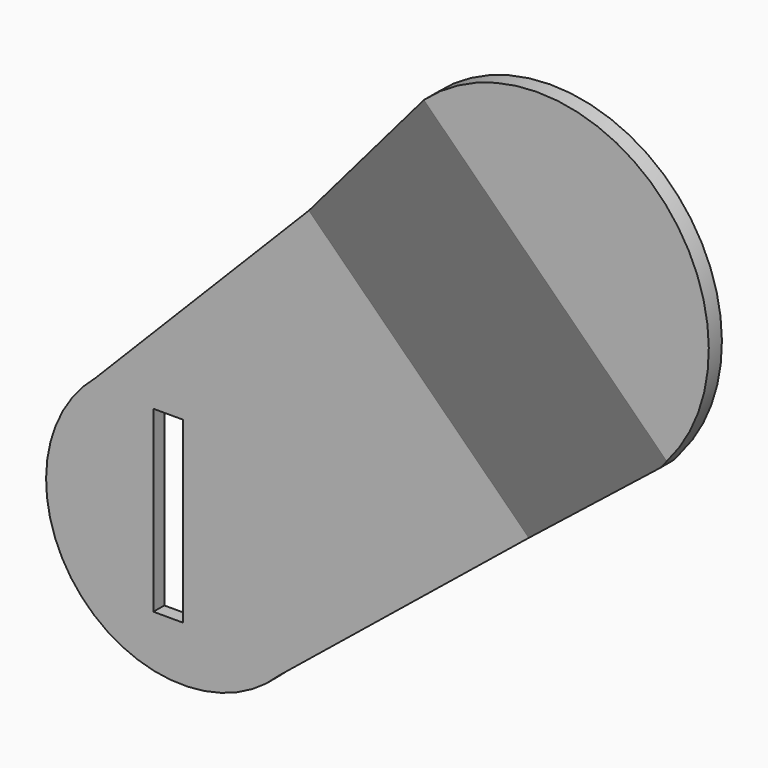
from build123d import *

# Parameters (mm, degrees)
F0_W     = 5.4636245876
F0_H     = 33.2398892505
F1_DEPTH = 2.54
F2_DEPTH = 25.4
F4_DEPTH = 125.8997323481
F5_DEPTH = 125.8997323481
F6_W     = 22.352
F6_H     = 49.1605467501
F7_DEPTH = 125.8997323481


with BuildPart() as f1:
    # F0 (on Front) → F1 (new body)
    with BuildSketch(Plane.XZ):
        with BuildLine():
            ThreePointArc((-58.7834570181, -20.4847763815), (-61.356974344, -57.1489152116), (-24.6143243603, -58.0761367374))
            Line((-24.6143243603, -58.0761367374), (21.8259629316, -20.4486662023))
            Line((21.8259629316, -20.4486662023), (19.6400941384, -18.2968238675))
            Line((19.6400941384, -18.2968238675), (-26.6574493018, -55.8086385705))
            ThreePointArc((-26.6574493018, -55.8086385705), (-59.1008466393, -55.0994768945), (-56.7221636318, -22.7356265638))
            Line((-56.7221636318, -22.7356265638), (-16.9208807766, 17.6950224269))
            Line((-16.9208807766, 17.6950224269), (-19.0929825471, 19.8333120442))
            Line((-19.0929825471, 19.8333120442), (-58.7834570181, -20.4847763815))
        make_face()
        with BuildLine():
            Line((-26.6574493018, -55.8086385705), (19.6400941384, -18.2968238675))
            Line((19.6400941384, -18.2968238675), (-16.9208807766, 17.6950224269))
            Line((-16.9208807766, 17.6950224269), (-56.7221636318, -22.7356265638))
            ThreePointArc((-56.7221636318, -22.7356265638), (-59.1008466393, -55.0994768945), (-26.6574493018, -55.8086385705))
        make_face()
        with Locations((-45.2741895661, -38.6369622716)):
            Rectangle(F0_W, F0_H, mode=Mode.SUBTRACT)
    extrude(amount=F1_DEPTH)

    # F0 (on Front) → F2 (join)
    with BuildSketch(Plane.XZ):
        with BuildLine():
            Line((19.6400941384, -18.2968238675), (21.8259629316, -20.4486662023))
            Line((21.8259629316, -20.4486662023), (63.3089077462, 13.162200025))
            ThreePointArc((63.3089077462, 13.162200025), (65.3407579963, 57.9152109511), (20.5974919239, 60.1514004699))
            Line((20.5974919239, 60.1514004699), (-19.0929825471, 19.8333120442))
            Line((-19.0929825471, 19.8333120442), (-16.9208807766, 17.6950224269))
            Line((-16.9208807766, 17.6950224269), (22.703735232, 57.9462109895))
            ThreePointArc((22.703735232, 57.9462109895), (63.0846270143, 55.8657762462), (61.315579372, 15.4700450325))
            Line((61.315579372, 15.4700450325), (19.6400941384, -18.2968238675))
        make_face()
        with BuildLine():
            Line((-16.9208807766, 17.6950224269), (19.6400941384, -18.2968238675))
            Line((19.6400941384, -18.2968238675), (61.315579372, 15.4700450325))
            ThreePointArc((61.315579372, 15.4700450325), (63.0846270143, 55.8657762462), (22.703735232, 57.9462109895))
            Line((22.703735232, 57.9462109895), (-16.9208807766, 17.6950224269))
        make_face()
    extrude(amount=F2_DEPTH)

    # F3 (on face) → F4 (cut, through all)
    with BuildSketch(Plane(origin=(-19.611689488, 0, 19.306402941), x_dir=(0, -1, 0), z_dir=(-0.7126316385, 0, 0.7015384151))):
        Polygon((25.4, 57.3157229122), (2.54, 0.7393849428), (25.4, 0.7393849428), align=None)
    extrude(amount=-F4_DEPTH, mode=Mode.SUBTRACT)

    # F3 (on face) → F5 (cut, through all)
    with BuildSketch(Plane(origin=(-19.611689488, 0, 19.306402941), x_dir=(0, -1, 0), z_dir=(-0.7126316385, 0, 0.7015384151))):
        Polygon((0, 1.9966368976), (22.352, 57.3157229122), (0, 57.3157229122), align=None)
    extrude(amount=-F5_DEPTH, mode=Mode.SUBTRACT)

    # F6 (on face) → F7 (cut, through all)
    with BuildSketch(Plane(origin=(-19.611689488, 0, 19.306402941), x_dir=(0, -1, 0), z_dir=(-0.7126316385, 0, 0.7015384151))):
        with Locations((11.176, 81.8959962873)):
            Rectangle(F6_W, F6_H)
    extrude(amount=-F7_DEPTH, mode=Mode.SUBTRACT)


solid = f1.part
